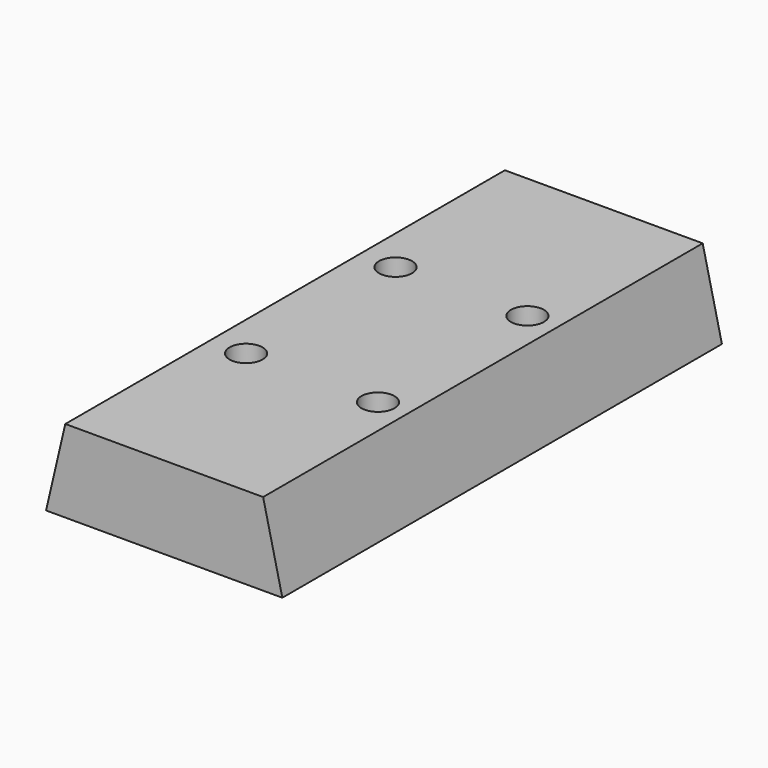
from build123d import *

# Parameters (mm, degrees)
CYLINDER001_R     = 3
CYLINDER001_DEPTH = 20
CYLINDER002_R     = 3
CYLINDER002_DEPTH = 20
CYLINDER003_R     = 3
CYLINDER003_DEPTH = 20
CYLINDER_R        = 3
CYLINDER_DEPTH    = 20
EXTRUDE_DEPTH     = 100


with BuildPart() as obj1:
    # Cylinder001 → Cylinder001 (new body)
    with BuildSketch(Plane(origin=(0, 34, 0), x_dir=(1, 0, 0), z_dir=(0, 0, 1))):
        Circle(CYLINDER001_R)
    extrude(amount=CYLINDER001_DEPTH)


with BuildPart() as obj2:
    # Cylinder002 → Cylinder002 (new body)
    with BuildSketch(Plane(origin=(24, 34, 0), x_dir=(1, 0, 0), z_dir=(0, 0, 1))):
        Circle(CYLINDER002_R)
    extrude(amount=CYLINDER002_DEPTH)


with BuildPart() as obj3:
    # Cylinder003 → Cylinder003 (new body)
    with BuildSketch(Plane(origin=(24, 0, 0), x_dir=(1, 0, 0), z_dir=(0, 0, 1))):
        Circle(CYLINDER003_R)
    extrude(amount=CYLINDER003_DEPTH)


with BuildPart() as fusion:
    # Cylinder → Cylinder (new body)
    with BuildSketch(Plane.XY):
        Circle(CYLINDER_R)
    extrude(amount=CYLINDER_DEPTH)

    # Fusion: union obj1, obj2, obj3
    add(obj1.part)
    add(obj2.part)
    add(obj3.part)


with BuildPart() as fusion_1:
    # Fusion placement: moved
    add(fusion.part.moved(Location((10, -67, 0))))


with BuildPart() as cut:
    # Sketch → Extrude (new body)
    with BuildSketch(Plane.XZ):
        Polygon((0, 0), (43, 0), (39.5, 15), (3.5, 15), align=None)
    extrude(amount=EXTRUDE_DEPTH)

    # Cut: cut Fusion
    add(fusion_1.part, mode=Mode.SUBTRACT)


solid = cut.part
